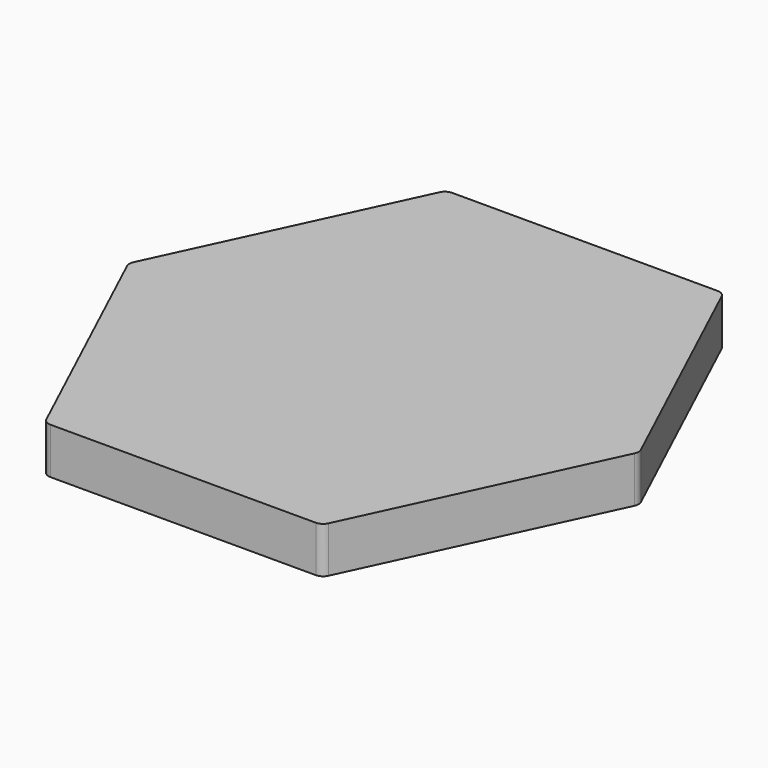
from build123d import *

# Parameters (mm, degrees)
PAD_DEPTH = 10
FILLET_R  = 2


with BuildPart() as part:
    # Sketch → Pad (new body)
    with BuildSketch(Plane.XY):
        Polygon((-30, 54.378467), (30, 54.378467), (55.357096, 0), (30, -54.378467), (-30, -54.378467), (-55.357096, 0), align=None)
    extrude(amount=PAD_DEPTH)

    # Fillet
    fillet_edges = [part.edges().sort_by_distance(p)[0] for p in [
        (30, 54.378467, 5),
        (-30, 54.378467, 5),
        (-55.357096, 0, 5),
        (-30, -54.378467, 5),
        (30, -54.378467, 5),
        (55.357096, 0, 5),
    ]]
    fillet(fillet_edges, radius=FILLET_R)


solid = part.part
